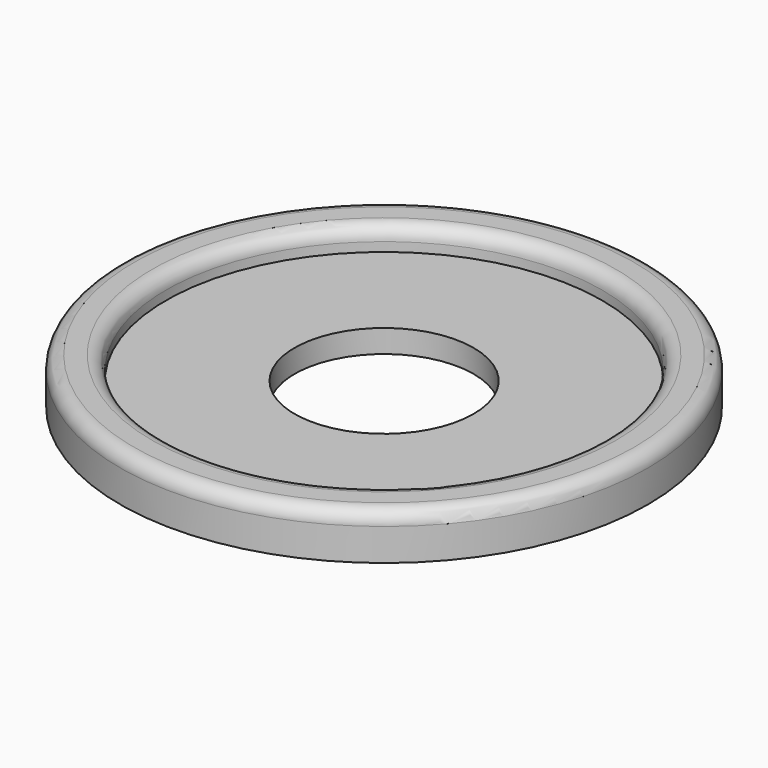
from build123d import *

# Parameters (mm, degrees)
F0_R     = 7.3025
F0_R_2   = 6.0325
F1_DEPTH = 0.635
F2_R     = 0.381
F3_R     = 7.3025
F3_R_2   = 2.4765
F4_DEPTH = 0.635


with BuildPart() as f1:
    # F0 (on Top) → F1 (new body)
    with BuildSketch(Plane.XY):
        Circle(F0_R)
        Circle(F0_R_2, mode=Mode.SUBTRACT)
    extrude(amount=F1_DEPTH)

    # F2
    f2_edges = [f1.edges().sort_by_distance(p)[0] for p in [
        (-7.3025, 0, 0.635),
        (-6.0325, 0, 0.635),
    ]]
    fillet(f2_edges, radius=F2_R)

    # F3 (on Top) → F4 (join)
    with BuildSketch(Plane.XY):
        Circle(F3_R)
        Circle(F3_R_2, mode=Mode.SUBTRACT)
    extrude(amount=-F4_DEPTH)


solid = f1.part
